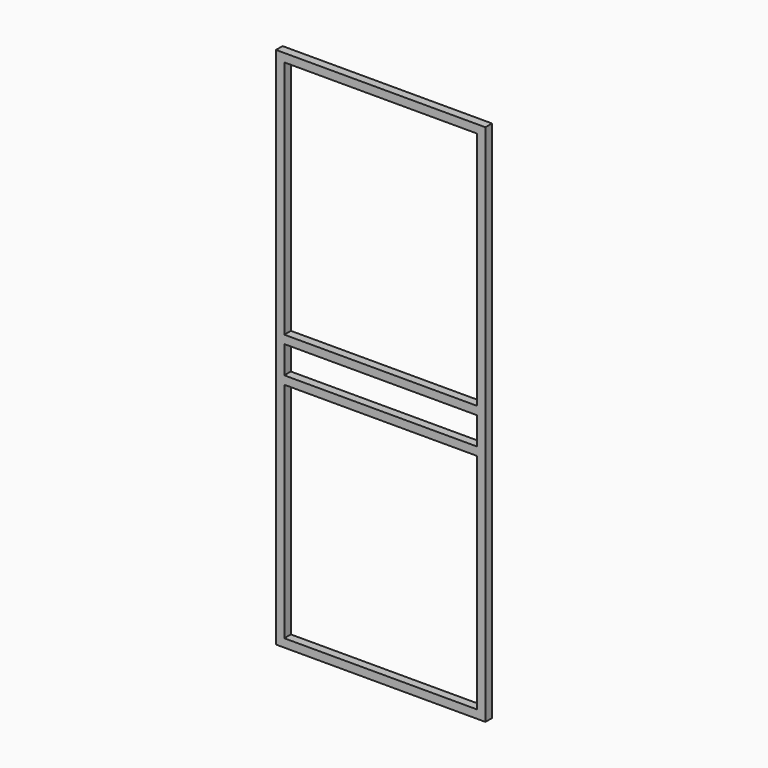
from build123d import *

# Parameters (mm, degrees)
F0_W     = 700
F0_H     = 810
F0_H_2   = 100
F1_DEPTH = 30


with BuildPart() as f1:
    # F0 (on Front) → F1 (new body)
    with BuildSketch(Plane.XZ):
        Polygon((-380, -900), (380, -900), (380, 900), (380, 1000), (-380, 1000), (-380, 900), align=None)
        with Locations((0, -465)):
            Rectangle(F0_W, F0_H, mode=Mode.SUBTRACT)
        with Locations((0, 20)):
            Rectangle(F0_W, F0_H_2, mode=Mode.SUBTRACT)
        Polygon((350, 970), (350, 870), (350, 100), (-350, 100), (-350, 870), (-350, 970), align=None, mode=Mode.SUBTRACT)
    extrude(amount=F1_DEPTH)


solid = f1.part
